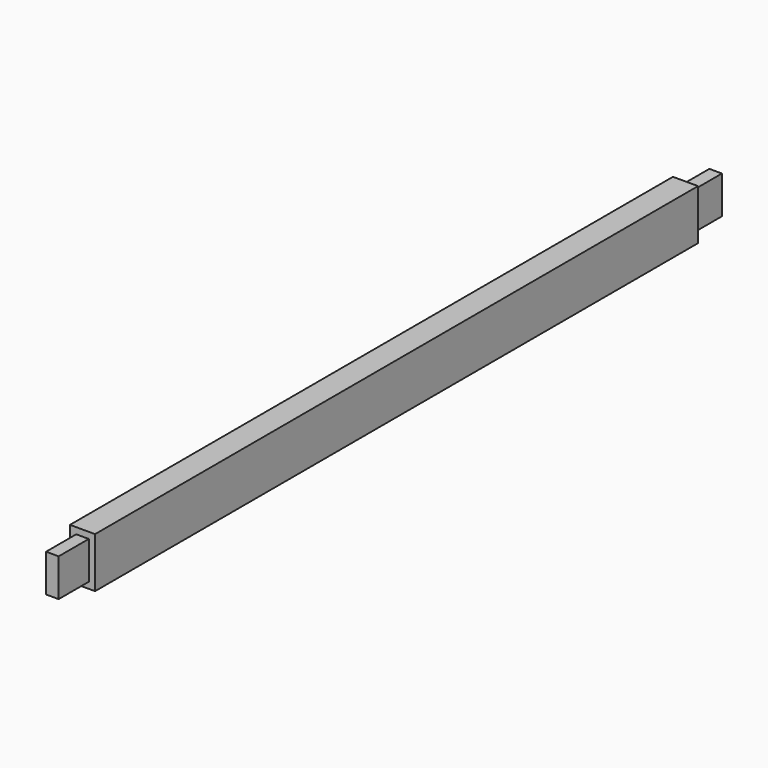
from build123d import *

# Parameters (mm, degrees)
F0_W          = 1524
F0_H          = 101.6
F1_DEPTH      = 25.4
F1_DEPTH_BACK = 25.4
F2_W          = 25.4
F2_H          = 76.2
F3_DEPTH      = 76.2
F4_W          = 25.4
F4_H          = 76.2
F5_DEPTH      = 76.2


with BuildPart() as f1:
    # F0 (on Right) → F1 (new body, two sides)
    with BuildSketch(Plane.YZ) as f1_sk:
        Rectangle(F0_W, F0_H)
    extrude(amount=F1_DEPTH)
    extrude(f1_sk.sketch, amount=-F1_DEPTH_BACK)

    # F2 (on face) → F3 (join)
    with BuildSketch(Plane(origin=(0, 762, 0), x_dir=(-1, 0, 0), z_dir=(0, 1, 0))):
        Rectangle(F2_W, F2_H)
    extrude(amount=F3_DEPTH)

    # F4 (on face) → F5 (join)
    with BuildSketch(Plane.XZ.offset(762)):
        Rectangle(F4_W, F4_H)
    extrude(amount=F5_DEPTH)


solid = f1.part
